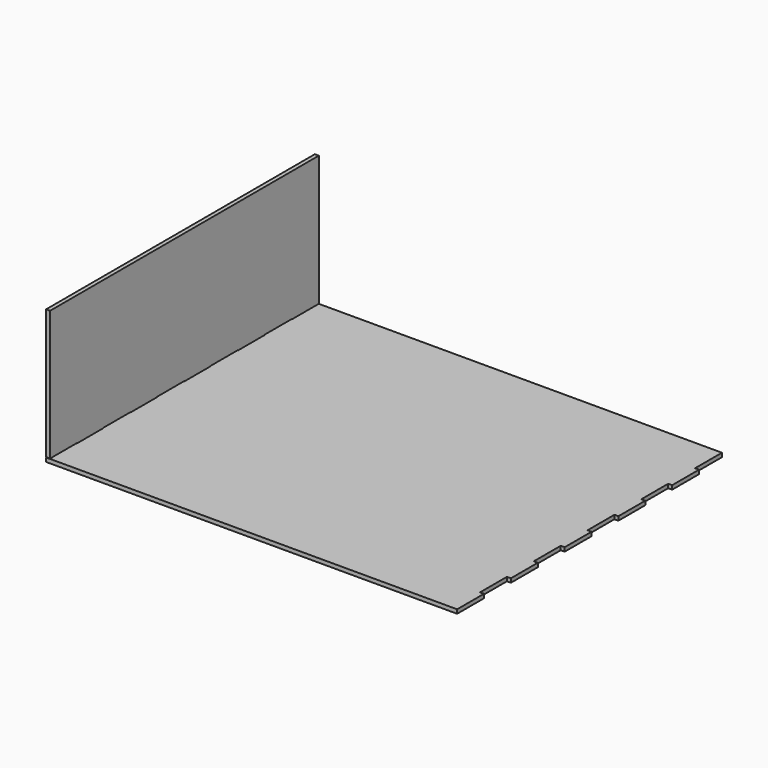
from build123d import *

# Parameters (mm, degrees)
F2_DEPTH  = 3
F3_W      = 254
F3_H      = 101.6
F4_DEPTH  = 3
F5_OFFSET = 0.254


with BuildPart() as f2:
    # F1 (on Top) → F2 (new body)
    with BuildSketch(Plane.XY):
        Polygon((152.4, 127), (-152.4, 127), (-152.4, 101.6), (-155.4, 101.6), (-155.4, 76.2), (-152.4, 76.2), (-152.4, 50.8), (-155.4, 50.8), (-155.4, 25.4), (-152.4, 25.4), (-152.4, 0), (-155.4, 0), (-155.4, -25.4), (-152.4, -25.4), (-152.4, -50.8), (-155.4, -50.8), (-155.4, -76.2), (-152.4, -76.2), (-152.4, -101.6), (-155.4, -101.6), (-155.4, -127), (-152.4, -127), (152.4, -127), (155.4, -127), (155.4, -101.6), (152.4, -101.6), (152.4, -76.2), (155.4, -76.2), (155.4, -50.8), (152.4, -50.8), (152.4, -25.4), (155.4, -25.4), (155.4, 0), (152.4, 0), (152.4, 25.4), (155.4, 25.4), (155.4, 50.8), (152.4, 50.8), (152.4, 76.2), (155.4, 76.2), (155.4, 101.6), (152.4, 101.6), align=None)
    extrude(amount=F2_DEPTH)


with BuildPart() as f4:
    # F3 (on face) → F4 (new body, through all)
    with BuildSketch(Plane(origin=(-152.4, 0, 0), x_dir=(0, -1, 0), z_dir=(-1, 0, 0))):
        with Locations((0, 50.8)):
            Rectangle(F3_W, F3_H)
    extrude(amount=F4_DEPTH)

    # F5: cut F2, made larger all round first
    f5_tool = offset(f2.part, amount=F5_OFFSET, kind=Kind.INTERSECTION, mode=Mode.PRIVATE)
    add(f5_tool, mode=Mode.SUBTRACT)


solid = Compound([f2.part, f4.part])
